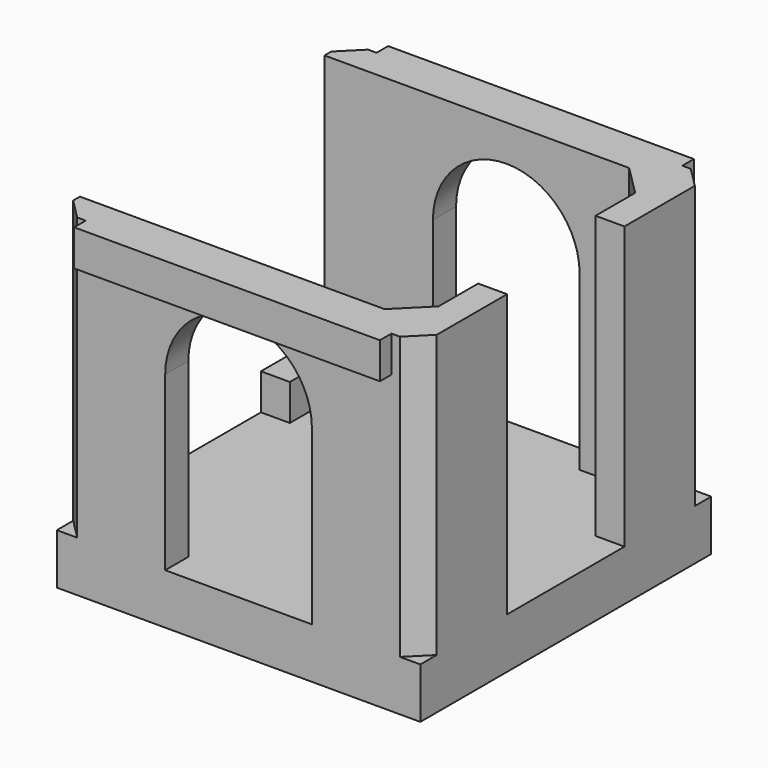
from build123d import *

# Parameters (mm, degrees)
SKETCH_W     = 50.3
SKETCH_H     = 50.3
PAD_DEPTH    = 7
PAD001_DEPTH = 39
SKETCH002_W  = 42.3
SKETCH002_H  = 34
POCKET_DEPTH = 15
SKETCH003_W  = 42.3
SKETCH003_H  = 6
PAD002_DEPTH = 5
PAD003_DEPTH = 4
PAD004_DEPTH = 4


with BuildPart() as part:
    # Sketch → Pad (new body)
    with BuildSketch(Plane.XY):
        Rectangle(SKETCH_W, SKETCH_H)
    extrude(amount=PAD_DEPTH)

    # Sketch001 (on Face6 of Pad) → Pad001 (join)
    with BuildSketch(Plane.XY.offset(7)):
        Polygon((17, 21.15), (21.15, 17), (21.15, 10.15), (25.15, 10.15), (25.15, 22.321573), (22.321573, 25.15), (10.15, 25.15), (10.15, 21.15), align=None)
        Polygon((-17, 21.15), (-21.15, 17), (-21.15, 10.15), (-25.15, 10.15), (-25.15, 22.321573), (-22.321573, 25.15), (-10.15, 25.15), (-10.15, 21.15), align=None)
        Polygon((17, -21.15), (21.15, -17), (21.15, -10.15), (25.15, -10.15), (25.15, -22.321573), (22.321573, -25.15), (10.15, -25.15), (10.15, -21.15), align=None)
        Polygon((-17, -21.15), (-21.15, -17), (-21.15, -10.15), (-25.15, -10.15), (-25.15, -22.321573), (-22.321573, -25.15), (-10.15, -25.15), (-10.15, -21.15), align=None)
    extrude(amount=PAD001_DEPTH)

    # Sketch002 (on Face13 of Pad001) → Pocket (cut)
    with BuildSketch(Plane(origin=(-25.15, 0, 0), x_dir=(0, -1, 0), z_dir=(-1, 0, 0))):
        with Locations((0, 29)):
            Rectangle(SKETCH002_W, SKETCH002_H)
    extrude(amount=-POCKET_DEPTH, mode=Mode.SUBTRACT)

    # Sketch003 (on Face50 of Pocket) → Pad002 (join)
    with BuildSketch(Plane.XY.offset(46)):
        with Locations((0, -24.15)):
            Rectangle(SKETCH003_W, SKETCH003_H)
        with Locations((0, 24.15)):
            Rectangle(SKETCH003_W, SKETCH003_H)
    extrude(amount=-PAD002_DEPTH)

    # Sketch004 (on Face44 of Pad002) → Pad003 (join)
    with BuildSketch(Plane.XZ.offset(25.15)):
        with BuildLine():
            ThreePointArc((10.15, 30.85), (0, 41), (-10.15, 30.85))
            Line((-10.15, 41.1), (-10.15, 30.85))
            Line((10.15, 41.1), (-10.15, 41.1))
            Line((10.15, 30.85), (10.15, 41.1))
        make_face()
    extrude(amount=-PAD003_DEPTH)

    # Sketch005 (on Face6 of Pad003) → Pad004 (join)
    with BuildSketch(Plane(origin=(0, 25.15, 0), x_dir=(-1, 0, 0), z_dir=(0, 1, 0))):
        with BuildLine():
            ThreePointArc((10.15, 30.85), (0, 41), (-10.15, 30.85))
            Line((-10.15, 30.85), (-10.15, 41.1))
            Line((-10.15, 41.1), (10.15, 41.1))
            Line((10.15, 30.85), (10.15, 41.1))
        make_face()
    extrude(amount=-PAD004_DEPTH)


solid = part.part
